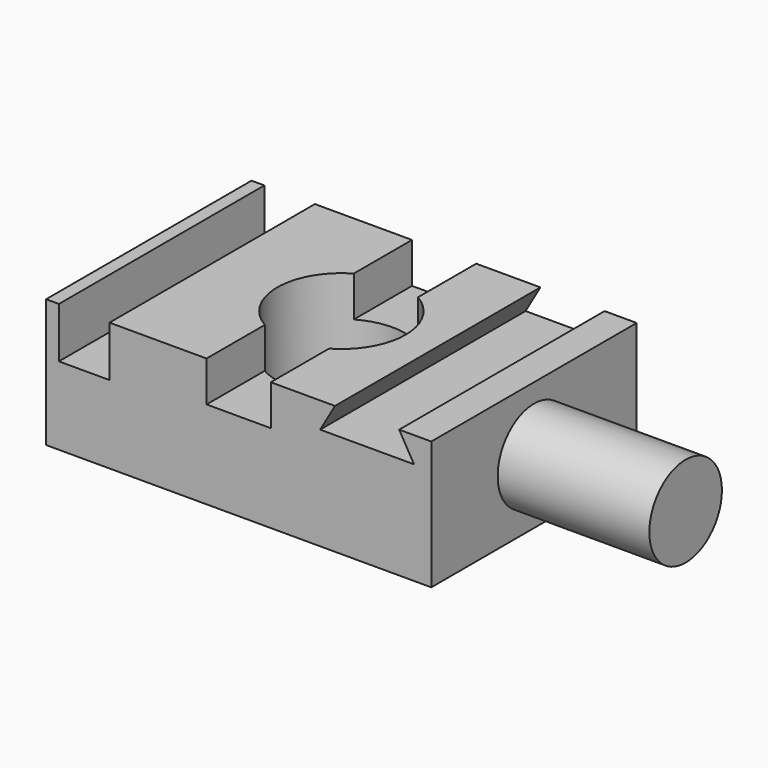
from build123d import *

# Parameters (mm, degrees)
F0_W     = 76.2
F0_H     = 50.8
F0_R     = 12.7
F1_DEPTH = 25.4
F2_W     = 10
F2_H     = 50.8
F3_DEPTH = 10
F2_W_2   = 12.7
F4_DEPTH = 8
F5_R     = 8.975174
F6_DEPTH = 30
F8_DEPTH = 50.8


with BuildPart() as f1:
    # F0 (on Top) → F1 (new body)
    with BuildSketch(Plane.XY):
        Rectangle(F0_W, F0_H)
        Circle(F0_R, mode=Mode.SUBTRACT)
    extrude(amount=-F1_DEPTH)

    # F2 (on Top) → F3 (cut)
    with BuildSketch(Plane.XY):
        with Locations((-30.56, 0)):
            Rectangle(F2_W, F2_H)
    extrude(amount=-F3_DEPTH, mode=Mode.SUBTRACT)

    # F2 (on Top) → F4 (cut)
    with BuildSketch(Plane.XY):
        Rectangle(F2_W_2, F2_H)
    extrude(amount=-F4_DEPTH, mode=Mode.SUBTRACT)

    # F5 (on face) → F6 (join)
    with BuildSketch(Plane.YZ.offset(38.1)):
        with Locations((0, -12.7)):
            Circle(F5_R)
    extrude(amount=F6_DEPTH)

    # F7 (on face) → F8 (cut)
    with BuildSketch(Plane.XZ.offset(25.4)):
        Polygon((31.75, 0), (19.05, 0), (16.117061, -5.08), (34.682939, -5.08), align=None)
    extrude(amount=-F8_DEPTH, mode=Mode.SUBTRACT)


solid = f1.part
